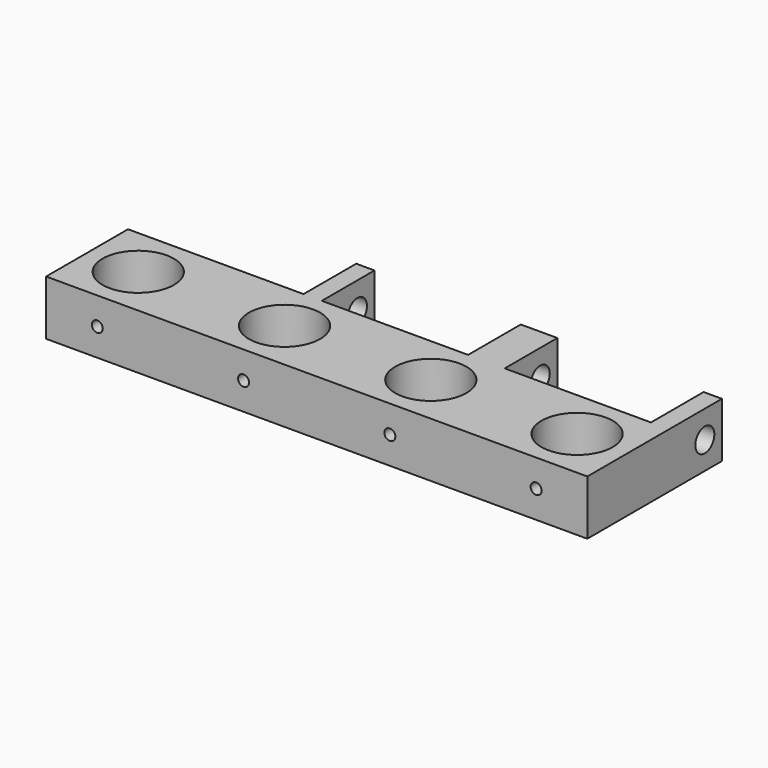
from build123d import *

# Parameters (mm, degrees)
F0_R     = 9.75
F1_DEPTH = 15
F2_R     = 3.25
F3_DEPTH = 125
F4_R     = 1.5
F5_DEPTH = 8


with BuildPart() as f1:
    # F0 (on Top) → F1 (new body)
    with BuildSketch(Plane.XY):
        Polygon((34, 14), (-14, 14), (-14, -14), (134, -14), (134, 14), (134, 32), (129, 32), (129, 14), (89, 14), (89, 32), (79, 32), (79, 14), (39, 14), (39, 32), (34, 32), align=None)
        Circle(F0_R, mode=Mode.SUBTRACT)
        with Locations((40, 0)):
            Circle(F0_R, mode=Mode.SUBTRACT)
        with Locations((80, 0)):
            Circle(F0_R, mode=Mode.SUBTRACT)
        with Locations((120, 0)):
            Circle(F0_R, mode=Mode.SUBTRACT)
    extrude(amount=F1_DEPTH)

    # F2 (on face) → F3 (cut)
    with BuildSketch(Plane.YZ.offset(134)):
        with Locations((26.161687, 7.5)):
            Circle(F2_R)
    extrude(amount=-F3_DEPTH, mode=Mode.SUBTRACT)

    # F4 (on face) → F5 (cut)
    with BuildSketch(Plane.XZ.offset(14)):
        with Locations((120, 7.5)):
            Circle(F4_R)
        with Locations((80, 7.5)):
            Circle(F4_R)
        with Locations((40, 7.5)):
            Circle(F4_R)
        with Locations((0, 7.5)):
            Circle(F4_R)
    extrude(amount=-F5_DEPTH, mode=Mode.SUBTRACT)


solid = f1.part
